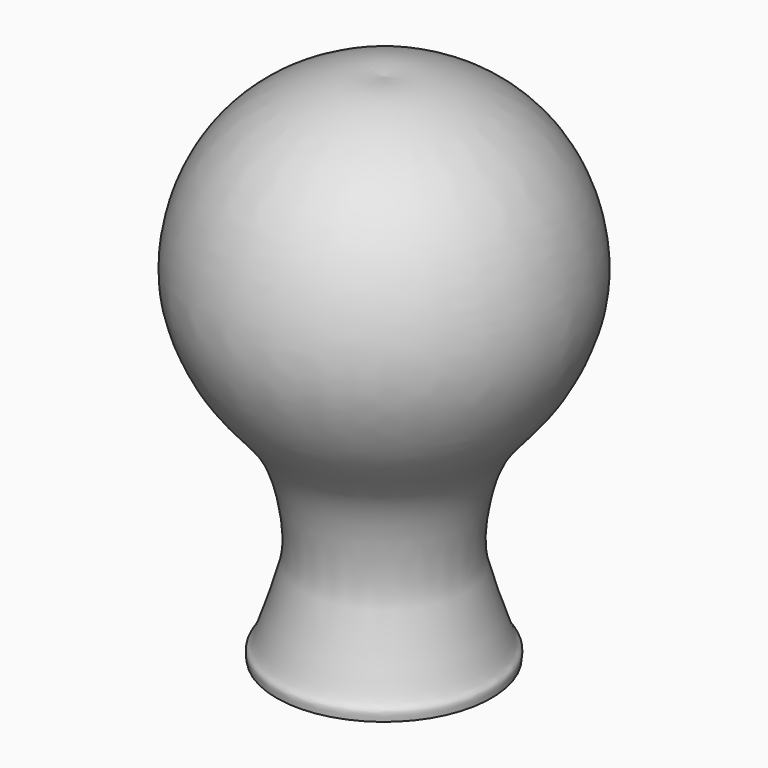
from build123d import *


with BuildPart() as f1:
    # F0 (on Front) → F1 (revolve)
    with BuildSketch(Plane.XZ):
        with BuildLine():
            add(Edge.make_bspline(
                [(0, 29.9), (-0.6375612975, 29.9683531504), (-2.1833820703, 30.1340810893), (-6.2719387275, 28.4909954594), (-9.0477603297, 25.4250717796), (-10.3289787506, 21.7661179357), (-10.3535152317, 18.210259405), (-8.8953299165, 14.9261980968), (-7.5169224672, 13.1297351392), (-5.6909671704, 11.1810673172), (-4.8504778277, 8.6318479867), (-4.5147074652, 5.9702735273), (-4.8627963992, 4.2249929355), (-5.6876492142, 1.8975927302), (-6.0194242276, 0.8326283911), (-6.3492670027, 0.566175651), (-6.2993534523, 0.2019382336), (-6.2716806934, 0)],
                knots=[0, 0, 0, 0, 0.0631953295, 0.1532223701, 0.2421359896, 0.3268408101, 0.4089299293, 0.4904017703, 0.5564010255, 0.626509829, 0.6984420114, 0.7688960541, 0.8280470345, 0.8970060826, 0.942056102, 0.9678751061, 1, 1, 1, 1], degree=3))
            Line((-6.2716806934, 0), (0, 0))
            Line((0, 0), (0, 29.9))
        make_face()
    revolve(axis=Axis((0, 0, 14.95), (0, 0, -1)))


solid = f1.part
